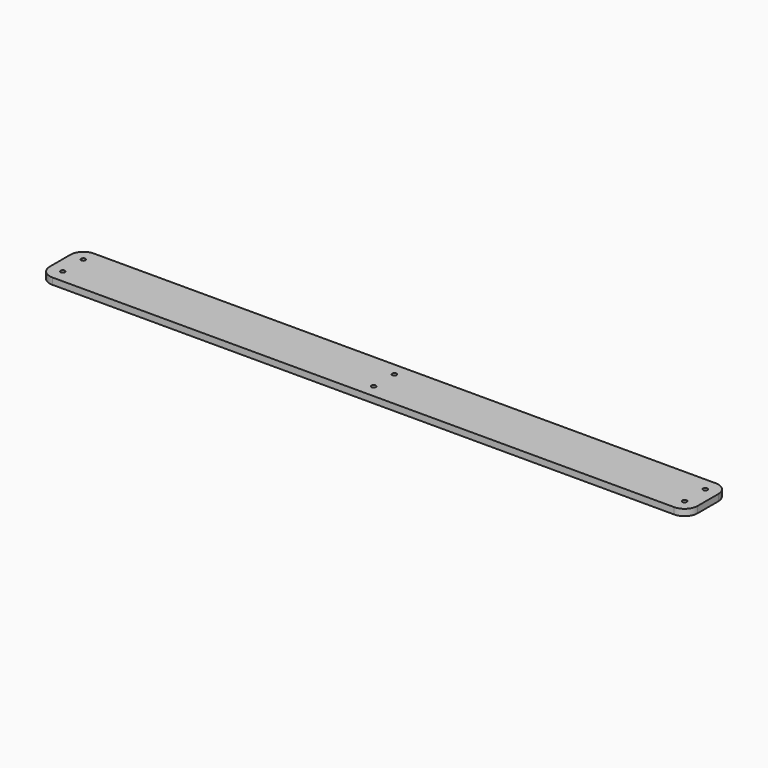
from build123d import *

# Parameters (mm, degrees)
F0_W     = 635
F0_H     = 50.8
F0_R     = 2.15265
F1_DEPTH = 6.35
F2_R     = 12.7


with BuildPart() as f1:
    # F0 (on Top) → F1 (new body)
    with BuildSketch(Plane.XY):
        Rectangle(F0_W, F0_H)
        with Locations((-304.8, -12.7)):
            Circle(F0_R, mode=Mode.SUBTRACT)
        with Locations((0, -12.7)):
            Circle(F0_R, mode=Mode.SUBTRACT)
        with Locations((304.8, -12.7)):
            Circle(F0_R, mode=Mode.SUBTRACT)
        with Locations((-304.8, 12.7)):
            Circle(F0_R, mode=Mode.SUBTRACT)
        with Locations((0, 12.7)):
            Circle(F0_R, mode=Mode.SUBTRACT)
        with Locations((304.8, 12.7)):
            Circle(F0_R, mode=Mode.SUBTRACT)
    extrude(amount=F1_DEPTH)

    # F2
    f2_edges = [f1.edges().sort_by_distance(p)[0] for p in [
        (317.5, 25.4, 3.175),
        (317.5, -25.4, 3.175),
        (-317.5, -25.4, 3.175),
        (-317.5, 25.4, 3.175),
    ]]
    fillet(f2_edges, radius=F2_R)


solid = f1.part
